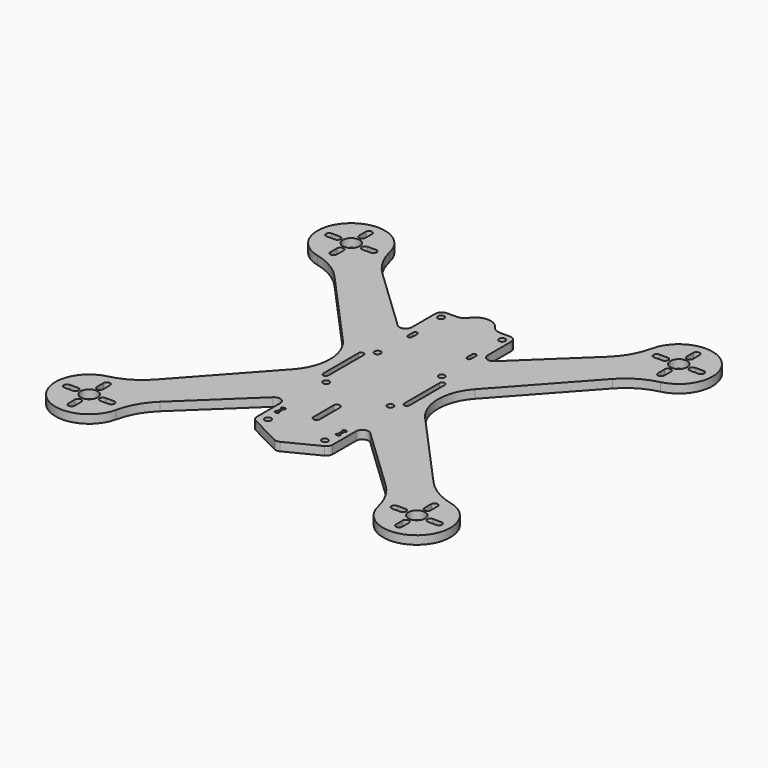
from build123d import *

# Parameters (mm, degrees)
F0_R     = 4
F0_R_2   = 1.5
F1_DEPTH = 4
F3_DEPTH = 4.001
F5_DEPTH = 4
F6_R     = 5


with BuildPart() as f1:
    # F0 (on Top) → F1 (new body)
    with BuildSketch(Plane.XY):
        with BuildLine():
            Line((15, 56), (-15, 56))
            ThreePointArc((-15, 56), (-17.1213203436, 55.1213203436), (-18, 53))
            Line((-18, 53), (-18, 39.1401607324))
            ThreePointArc((-18, 39.1401607324), (-19.8179603725, 36.3828464016), (-23.0685215461, 36.9673241961))
            Line((-23.0685215461, 36.9673241961), (-53.5525236746, 65.9878299541))
            ThreePointArc((-53.5525236746, 65.9878299541), (-58.9932915043, 72.9705858988), (-62.1593328118, 81.2372065867))
            ThreePointArc((-62.1593328118, 81.2372065867), (-89.0271125759, 89.163385927), (-81.4251241089, 62.20208626))
            ThreePointArc((-81.4251241089, 62.20208626), (-73.0182422421, 58.8319885324), (-66.0002936454, 53.1064650707))
            Line((-66.0002936454, 53.1064650707), (-31.3335179301, 14.7519098415))
            ThreePointArc((-31.3335179301, 14.7519098415), (-25.6547052652, 0), (-31.3335179301, -14.7519098415))
            Line((-31.3335179301, -14.7519098415), (-66.0002936454, -53.1064650707))
            ThreePointArc((-66.0002936454, -53.1064650707), (-73.0182422421, -58.8319885324), (-81.4251241089, -62.20208626))
            ThreePointArc((-81.4251241089, -62.20208626), (-89.0271125759, -89.163385927), (-62.1593328118, -81.2372065867))
            ThreePointArc((-62.1593328118, -81.2372065867), (-58.9932915043, -72.9705858988), (-53.5525236746, -65.9878299541))
            Line((-53.5525236746, -65.9878299541), (-23.0685215461, -36.9673241961))
            ThreePointArc((-23.0685215461, -36.9673241961), (-19.8179603725, -36.3828464016), (-18, -39.1401607324))
            Line((-18, -39.1401607324), (-18, -53))
            ThreePointArc((-18, -53), (-17.1213203436, -55.1213203436), (-15, -56))
            Line((-15, -56), (15, -56))
            ThreePointArc((15, -56), (17.1213203436, -55.1213203436), (18, -53))
            Line((18, -53), (18, -39.1401607324))
            ThreePointArc((18, -39.1401607324), (19.8179603725, -36.3828464016), (23.0685215461, -36.9673241961))
            Line((23.0685215461, -36.9673241961), (53.5525236746, -65.9878299541))
            ThreePointArc((53.5525236746, -65.9878299541), (58.9932915043, -72.9705858988), (62.1593328118, -81.2372065867))
            ThreePointArc((62.1593328118, -81.2372065867), (89.0271125759, -89.163385927), (81.4251241089, -62.20208626))
            ThreePointArc((81.4251241089, -62.20208626), (73.0182422421, -58.8319885324), (66.0002936454, -53.1064650707))
            Line((66.0002936454, -53.1064650707), (31.3335179301, -14.7519098415))
            ThreePointArc((31.3335179301, -14.7519098415), (25.6547052652, 0), (31.3335179301, 14.7519098415))
            Line((31.3335179301, 14.7519098415), (66.0002936454, 53.1064650707))
            ThreePointArc((66.0002936454, 53.1064650707), (73.0182422421, 58.8319885324), (81.4251241089, 62.20208626))
            ThreePointArc((81.4251241089, 62.20208626), (89.0271125759, 89.163385927), (62.1593328118, 81.2372065867))
            ThreePointArc((62.1593328118, 81.2372065867), (58.9932915043, 72.9705858988), (53.5525236746, 65.9878299541))
            Line((53.5525236746, 65.9878299541), (23.0685215461, 36.9673241961))
            ThreePointArc((23.0685215461, 36.9673241961), (19.8179603725, 36.3828464016), (18, 39.1401607324))
            Line((18, 39.1401607324), (18, 53))
            ThreePointArc((18, 53), (17.1213203436, 55.1213203436), (15, 56))
        make_face()
        with BuildLine():
            ThreePointArc((-79.2817459305, -84.2817459305), (-77.7817459305, -82.7817459305), (-76.2817459305, -84.2817459305))
            Line((-76.2817459305, -84.2817459305), (-76.2817459305, -88.2817459305))
            ThreePointArc((-76.2817459305, -88.2817459305), (-77.7817459305, -89.7817459305), (-79.2817459305, -88.2817459305))
            Line((-79.2817459305, -88.2817459305), (-79.2817459305, -84.2817459305))
        make_face(mode=Mode.SUBTRACT)
        with BuildLine():
            Line((-84.2817459305, -79.2817459305), (-88.2817459305, -79.2817459305))
            ThreePointArc((-88.2817459305, -79.2817459305), (-89.7817459305, -77.7817459305), (-88.2817459305, -76.2817459305))
            Line((-88.2817459305, -76.2817459305), (-84.2817459305, -76.2817459305))
            ThreePointArc((-84.2817459305, -76.2817459305), (-82.7817459305, -77.7817459305), (-84.2817459305, -79.2817459305))
        make_face(mode=Mode.SUBTRACT)
        with Locations((-77.7817459305, -77.7817459305)):
            Circle(F0_R, mode=Mode.SUBTRACT)
        with BuildLine():
            ThreePointArc((-67.2817459305, -76.2817459305), (-65.7817459305, -77.7817459305), (-67.2817459305, -79.2817459305))
            Line((-67.2817459305, -79.2817459305), (-71.2817459305, -79.2817459305))
            ThreePointArc((-71.2817459305, -79.2817459305), (-72.7817459305, -77.7817459305), (-71.2817459305, -76.2817459305))
            Line((-71.2817459305, -76.2817459305), (-67.2817459305, -76.2817459305))
        make_face(mode=Mode.SUBTRACT)
        with BuildLine():
            ThreePointArc((-79.2817459305, -67.2817459305), (-77.7817459305, -65.7817459305), (-76.2817459305, -67.2817459305))
            Line((-76.2817459305, -67.2817459305), (-76.2817459305, -71.2817459305))
            ThreePointArc((-76.2817459305, -71.2817459305), (-77.7817459305, -72.7817459305), (-79.2817459305, -71.2817459305))
            Line((-79.2817459305, -71.2817459305), (-79.2817459305, -67.2817459305))
        make_face(mode=Mode.SUBTRACT)
        with Locations((-13.5, -52)):
            Circle(F0_R_2, mode=Mode.SUBTRACT)
        with BuildLine():
            ThreePointArc((-1.5, -28), (0, -26.5), (1.5, -28))
            Line((1.5, -28), (1.5, -40))
            ThreePointArc((1.5, -40), (0, -41.5), (-1.5, -40))
            Line((-1.5, -40), (-1.5, -28))
        make_face(mode=Mode.SUBTRACT)
        with Locations((-15.25, -15.25)):
            Circle(F0_R_2, mode=Mode.SUBTRACT)
        with Locations((13.5, -52)):
            Circle(F0_R_2, mode=Mode.SUBTRACT)
        with BuildLine():
            ThreePointArc((67.2817459305, -79.2817459305), (65.7817459305, -77.7817459305), (67.2817459305, -76.2817459305))
            Line((67.2817459305, -76.2817459305), (71.2817459305, -76.2817459305))
            ThreePointArc((71.2817459305, -76.2817459305), (72.7817459305, -77.7817459305), (71.2817459305, -79.2817459305))
            Line((71.2817459305, -79.2817459305), (67.2817459305, -79.2817459305))
        make_face(mode=Mode.SUBTRACT)
        with BuildLine():
            Line((79.2817459305, -84.2817459305), (79.2817459305, -88.2817459305))
            ThreePointArc((79.2817459305, -88.2817459305), (77.7817459305, -89.7817459305), (76.2817459305, -88.2817459305))
            Line((76.2817459305, -88.2817459305), (76.2817459305, -84.2817459305))
            ThreePointArc((76.2817459305, -84.2817459305), (77.7817459305, -82.7817459305), (79.2817459305, -84.2817459305))
        make_face(mode=Mode.SUBTRACT)
        with Locations((77.7817459305, -77.7817459305)):
            Circle(F0_R, mode=Mode.SUBTRACT)
        with BuildLine():
            ThreePointArc((84.2817459305, -79.2817459305), (82.7817459305, -77.7817459305), (84.2817459305, -76.2817459305))
            Line((84.2817459305, -76.2817459305), (88.2817459305, -76.2817459305))
            ThreePointArc((88.2817459305, -76.2817459305), (89.7817459305, -77.7817459305), (88.2817459305, -79.2817459305))
            Line((88.2817459305, -79.2817459305), (84.2817459305, -79.2817459305))
        make_face(mode=Mode.SUBTRACT)
        with BuildLine():
            ThreePointArc((76.2817459305, -67.2817459305), (77.7817459305, -65.7817459305), (79.2817459305, -67.2817459305))
            Line((79.2817459305, -67.2817459305), (79.2817459305, -71.2817459305))
            ThreePointArc((79.2817459305, -71.2817459305), (77.7817459305, -72.7817459305), (76.2817459305, -71.2817459305))
            Line((76.2817459305, -71.2817459305), (76.2817459305, -67.2817459305))
        make_face(mode=Mode.SUBTRACT)
        with Locations((15.25, -15.25)):
            Circle(F0_R_2, mode=Mode.SUBTRACT)
        with BuildLine():
            Line((-20.5, -10.5), (-20.5, 10.5))
            ThreePointArc((-20.5, 10.5), (-19.25, 11.75), (-18, 10.5))
            Line((-18, 10.5), (-18, -10.5))
            ThreePointArc((-18, -10.5), (-19.25, -11.75), (-20.5, -10.5))
        make_face(mode=Mode.SUBTRACT)
        with Locations((-15.25, 15.25)):
            Circle(F0_R_2, mode=Mode.SUBTRACT)
        with BuildLine():
            ThreePointArc((-15, 36), (-14, 37), (-13, 36))
            Line((-13, 36), (-13, 33))
            ThreePointArc((-13, 33), (-14, 32), (-15, 33))
            Line((-15, 33), (-15, 36))
        make_face(mode=Mode.SUBTRACT)
        with BuildLine():
            ThreePointArc((-76.2817459305, 67.2817459305), (-77.7817459305, 65.7817459305), (-79.2817459305, 67.2817459305))
            Line((-79.2817459305, 67.2817459305), (-79.2817459305, 71.2817459305))
            ThreePointArc((-79.2817459305, 71.2817459305), (-77.7817459305, 72.7817459305), (-76.2817459305, 71.2817459305))
            Line((-76.2817459305, 71.2817459305), (-76.2817459305, 67.2817459305))
        make_face(mode=Mode.SUBTRACT)
        with BuildLine():
            ThreePointArc((-88.2817459305, 76.2817459305), (-89.7817459305, 77.7817459305), (-88.2817459305, 79.2817459305))
            Line((-88.2817459305, 79.2817459305), (-84.2817459305, 79.2817459305))
            ThreePointArc((-84.2817459305, 79.2817459305), (-82.7817459305, 77.7817459305), (-84.2817459305, 76.2817459305))
            Line((-84.2817459305, 76.2817459305), (-88.2817459305, 76.2817459305))
        make_face(mode=Mode.SUBTRACT)
        with Locations((-77.7817459305, 77.7817459305)):
            Circle(F0_R, mode=Mode.SUBTRACT)
        with BuildLine():
            ThreePointArc((-76.2817459305, 84.2817459305), (-77.7817459305, 82.7817459305), (-79.2817459305, 84.2817459305))
            Line((-79.2817459305, 84.2817459305), (-79.2817459305, 88.2817459305))
            ThreePointArc((-79.2817459305, 88.2817459305), (-77.7817459305, 89.7817459305), (-76.2817459305, 88.2817459305))
            Line((-76.2817459305, 88.2817459305), (-76.2817459305, 84.2817459305))
        make_face(mode=Mode.SUBTRACT)
        with BuildLine():
            ThreePointArc((-67.2817459305, 79.2817459305), (-65.7817459305, 77.7817459305), (-67.2817459305, 76.2817459305))
            Line((-67.2817459305, 76.2817459305), (-71.2817459305, 76.2817459305))
            ThreePointArc((-71.2817459305, 76.2817459305), (-72.7817459305, 77.7817459305), (-71.2817459305, 79.2817459305))
            Line((-71.2817459305, 79.2817459305), (-67.2817459305, 79.2817459305))
        make_face(mode=Mode.SUBTRACT)
        with Locations((-14.5, 52)):
            Circle(F0_R_2, mode=Mode.SUBTRACT)
        with BuildLine():
            Line((20.5, 10.5), (20.5, -10.5))
            ThreePointArc((20.5, -10.5), (19.25, -11.75), (18, -10.5))
            Line((18, -10.5), (18, 10.5))
            ThreePointArc((18, 10.5), (19.25, 11.75), (20.5, 10.5))
        make_face(mode=Mode.SUBTRACT)
        with Locations((15.25, 15.25)):
            Circle(F0_R_2, mode=Mode.SUBTRACT)
        with BuildLine():
            Line((13, 33), (13, 36))
            ThreePointArc((13, 36), (14, 37), (15, 36))
            Line((15, 36), (15, 33))
            ThreePointArc((15, 33), (14, 32), (13, 33))
        make_face(mode=Mode.SUBTRACT)
        with Locations((14.5, 52)):
            Circle(F0_R_2, mode=Mode.SUBTRACT)
        with BuildLine():
            ThreePointArc((79.2817459305, 67.2817459305), (77.7817459305, 65.7817459305), (76.2817459305, 67.2817459305))
            Line((76.2817459305, 67.2817459305), (76.2817459305, 71.2817459305))
            ThreePointArc((76.2817459305, 71.2817459305), (77.7817459305, 72.7817459305), (79.2817459305, 71.2817459305))
            Line((79.2817459305, 71.2817459305), (79.2817459305, 67.2817459305))
        make_face(mode=Mode.SUBTRACT)
        with BuildLine():
            ThreePointArc((67.2817459305, 76.2817459305), (65.7817459305, 77.7817459305), (67.2817459305, 79.2817459305))
            Line((67.2817459305, 79.2817459305), (71.2817459305, 79.2817459305))
            ThreePointArc((71.2817459305, 79.2817459305), (72.7817459305, 77.7817459305), (71.2817459305, 76.2817459305))
            Line((71.2817459305, 76.2817459305), (67.2817459305, 76.2817459305))
        make_face(mode=Mode.SUBTRACT)
        with Locations((77.7817459305, 77.7817459305)):
            Circle(F0_R, mode=Mode.SUBTRACT)
        with BuildLine():
            Line((84.2817459305, 79.2817459305), (88.2817459305, 79.2817459305))
            ThreePointArc((88.2817459305, 79.2817459305), (89.7817459305, 77.7817459305), (88.2817459305, 76.2817459305))
            Line((88.2817459305, 76.2817459305), (84.2817459305, 76.2817459305))
            ThreePointArc((84.2817459305, 76.2817459305), (82.7817459305, 77.7817459305), (84.2817459305, 79.2817459305))
        make_face(mode=Mode.SUBTRACT)
        with BuildLine():
            ThreePointArc((79.2817459305, 84.2817459305), (77.7817459305, 82.7817459305), (76.2817459305, 84.2817459305))
            Line((76.2817459305, 84.2817459305), (76.2817459305, 88.2817459305))
            ThreePointArc((76.2817459305, 88.2817459305), (77.7817459305, 89.7817459305), (79.2817459305, 88.2817459305))
            Line((79.2817459305, 88.2817459305), (79.2817459305, 84.2817459305))
        make_face(mode=Mode.SUBTRACT)
    extrude(amount=F1_DEPTH)

    # F2 (on face) → F3 (cut, through all)
    with BuildSketch(Plane.XY.offset(4)):
        with BuildLine():
            Line((-14, -41), (-15, -41))
            ThreePointArc((-15, -41), (-15.5, -41.5), (-15, -42))
            Line((-15, -42), (-15, -45))
            ThreePointArc((-15, -45), (-15.5, -45.5), (-15, -46))
            Line((-15, -46), (-14, -46))
            ThreePointArc((-14, -46), (-13.5, -45.5), (-14, -45))
            Line((-14, -45), (-14, -42))
            ThreePointArc((-14, -42), (-13.5, -41.5), (-14, -41))
        make_face()
        with BuildLine():
            ThreePointArc((15, -46), (15.5, -45.5), (15, -45))
            Line((15, -45), (15, -42))
            ThreePointArc((15, -42), (15.5, -41.5), (15, -41))
            Line((15, -41), (14, -41))
            ThreePointArc((14, -41), (13.5, -41.5), (14, -42))
            Line((14, -42), (14, -45))
            ThreePointArc((14, -45), (13.5, -45.5), (14, -46))
            Line((14, -46), (15, -46))
        make_face()
    extrude(amount=-F3_DEPTH, mode=Mode.SUBTRACT)

    # F4 (on face) → F5 (join)
    with BuildSketch(Plane.XY.offset(4)):
        with BuildLine():
            ThreePointArc((-15, -56), (-15.6996380502, -55.9172772578), (-16.3606921149, -55.6736710658))
            Line((-16.3606921149, -55.6736710658), (-1.3606921149, -63.3075127844))
            ThreePointArc((-1.3606921149, -63.3075127844), (0, -63.6338417186), (1.3606921149, -63.3075127844))
            Line((1.3606921149, -63.3075127844), (16.3606921149, -55.6736710658))
            ThreePointArc((16.3606921149, -55.6736710658), (15.6996380502, -55.9172772578), (15, -56))
            Line((15, -56), (-15, -56))
        make_face()
        with BuildLine():
            ThreePointArc((7.2284161474, 56), (0, 61.5), (-7.2284161474, 56))
            Line((-7.2284161474, 56), (7.2284161474, 56))
        make_face()
    extrude(amount=-F5_DEPTH)

    # F6
    f6_edges = [f1.edges().sort_by_distance(p)[0] for p in [
        (-7.228416, 56, 2),
        (7.228416, 56, 2),
    ]]
    fillet(f6_edges, radius=F6_R)


solid = f1.part
